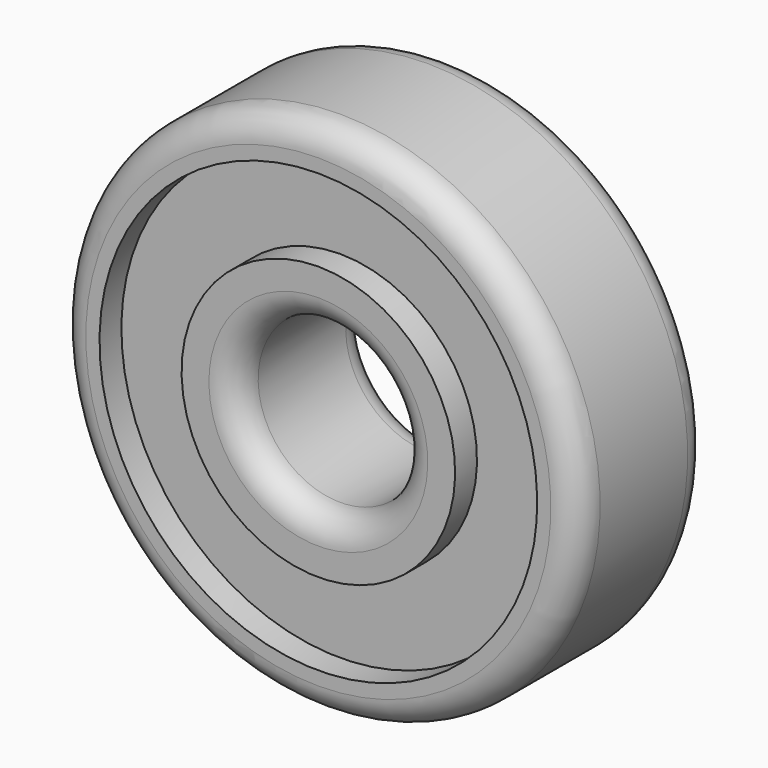
from build123d import *


with BuildPart() as f1:
    # F0 (on Right) → F1 (revolve)
    with BuildSketch(Plane.YZ):
        with BuildLine():
            Line((5, 9.5), (1, 9.5))
            ThreePointArc((1, 9.5), (0.292893, 9.207107), (0, 8.5))
            Line((0, 8.5), (0, 8))
            Line((0, 8), (1, 8))
            Line((1, 8), (1, 5))
            Line((1, 5), (0, 5))
            Line((0, 5), (0, 4))
            ThreePointArc((0, 4), (0.292893, 3.292893), (1, 3))
            Line((1, 3), (5, 3))
            ThreePointArc((5, 3), (5.707107, 3.292893), (6, 4))
            Line((6, 4), (6, 5))
            Line((6, 5), (5, 5))
            Line((5, 5), (5, 8))
            Line((5, 8), (6, 8))
            Line((6, 8), (6, 8.5))
            ThreePointArc((6, 8.5), (5.707107, 9.207107), (5, 9.5))
        make_face()
    revolve(axis=Axis((0, 5.126838, 0), (0, 1, 0)))


solid = f1.part
